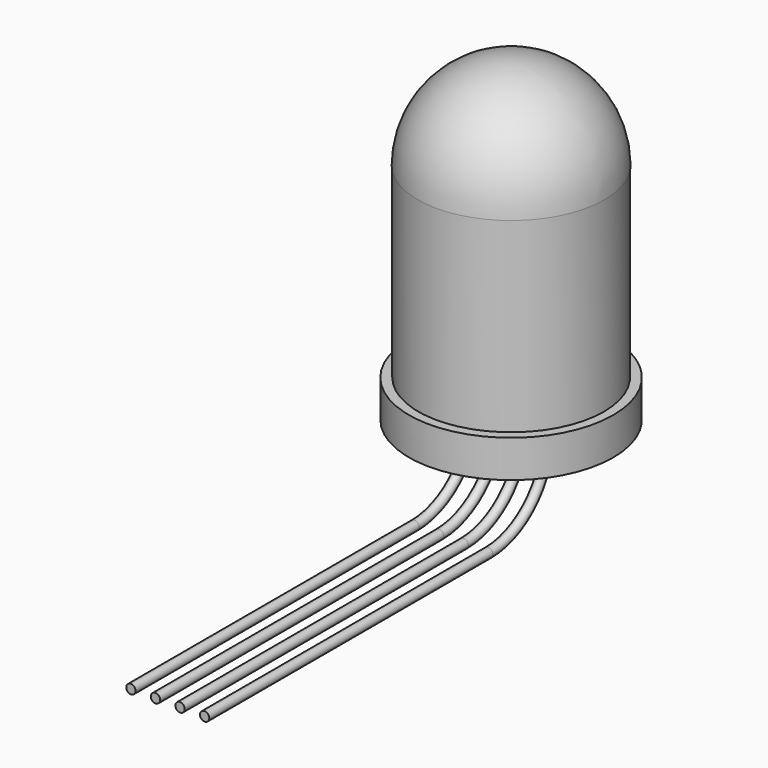
from build123d import *

# Parameters (mm, degrees)
F0_R     = 5.475
F1_DEPTH = 2
F2_R     = 4.975
F3_DEPTH = 10
F6_R     = 0.25


with BuildPart() as f1:
    # F0 (on Top) → F1 (new body)
    with BuildSketch(Plane.XY):
        Circle(F0_R)
    extrude(amount=F1_DEPTH)

    # F2 (on face) → F3 (join)
    with BuildSketch(Plane.XY.offset(2)):
        Circle(F2_R)
    extrude(amount=F3_DEPTH)

    # F4 (on Front) → F5 (revolve)
    with BuildSketch(Plane.XZ):
        with BuildLine():
            Line((0, 17), (0, 12))
            Line((0, 12), (5, 12))
            ThreePointArc((5, 12), (3.5355339059, 15.5355339059), (0, 17))
        make_face()
    revolve(axis=Axis((0, 0, 14.5), (0, 0, 1)))

    # F9: sweep along a path in F8
    with BuildLine(Plane.YZ.offset(1.974)) as f9_path:
        Line((-23, -4), (-4, -4))
        ThreePointArc((-4, -4), (-1.1715728753, -2.8284271247), (0, 0))
    # F6 (on Top) → F9 (sweep)
    with BuildSketch(Plane.XY):
        with Locations((-1.975, 0)):
            Circle(F6_R)
        with Locations((1.975, 0)):
            Circle(F6_R)
        with Locations((-0.659, 0)):
            Circle(F6_R)
        with Locations((0.659, 0)):
            Circle(F6_R)
    sweep(path=f9_path.line)


solid = f1.part
